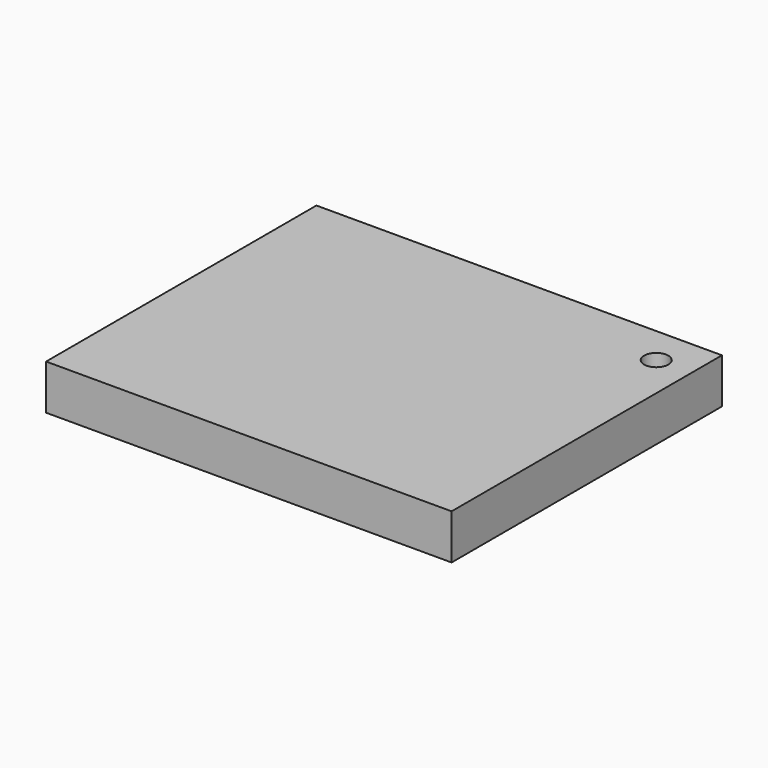
from build123d import *

# Parameters (mm, degrees)
F1_DEPTH = 25.4


with BuildPart() as f1:
    # F0 (on Top) → F1 (new body)
    with BuildSketch(Plane.XY):
        with BuildLine():
            Line((9.274333, -44.647821), (25.95889, -44.647821))
            Line((25.95889, -44.647821), (25.95889, 124.220066))
            Line((25.95889, 124.220066), (13.079206, 124.220066))
            ThreePointArc((13.079206, 124.220066), (11.117097, 119.422112), (6.355267, 117.373893))
            Line((6.355267, 117.373893), (9.274333, -44.647821))
        make_face()
        with BuildLine():
            Line((-202.64111, -44.647821), (9.274333, -44.647821))
            Line((9.274333, -44.647821), (6.355267, 117.373893))
            ThreePointArc((6.355267, 117.373893), (1.346748, 129.018019), (13.079206, 124.220066))
            Line((13.079206, 124.220066), (25.95889, 124.220066))
            Line((25.95889, 124.220066), (25.95889, 145.852179))
            Line((25.95889, 145.852179), (-202.64111, 145.852179))
            Line((-202.64111, 145.852179), (-202.64111, -44.647821))
        make_face()
    extrude(amount=F1_DEPTH)


solid = f1.part
